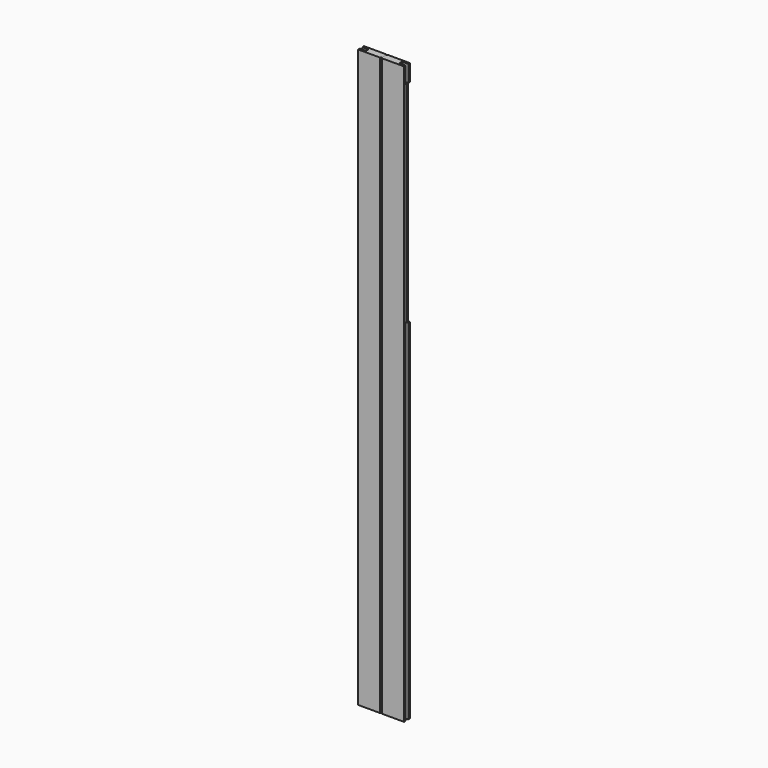
from build123d import *

# Parameters (mm, degrees)
F0_W      = 69.85
F0_H      = 1778
F1_DEPTH  = 22.225
F2_W      = 9.525
F2_H      = 47.625
F2_H_2    = 38.1
F2_H_3    = 60.325
F3_DEPTH  = 69.85
F2_H_4    = 31.75
F2_H_5    = 25.4
F4_DEPTH  = 19.05
F5_W      = 69.85
F5_H      = 12.7
F6_DEPTH  = 22.226
F7_W      = 9.525
F7_H      = 939.8
F8_DEPTH  = 9.525
F10_SIZE  = 3.175
F11_DEPTH = 1.984375
F12_DEPTH = 6.35


with BuildPart() as f1:
    # F0 (on Front) → F1 (new body)
    with BuildSketch(Plane.XZ):
        with Locations((34.925, 889)):
            Rectangle(F0_W, F0_H)
    extrude(amount=F1_DEPTH)

    # F2 (on face) → F3 (cut, through all)
    with BuildSketch(Plane.YZ.offset(69.85)):
        with Locations((-11.1125, 55.5625)):
            Rectangle(F2_W, F2_H)
        with Locations((-11.1125, 1733.55)):
            Rectangle(F2_W, F2_H_2)
        with Locations((-11.1125, 1049.3375)):
            Rectangle(F2_W, F2_H_3)
    extrude(amount=-F3_DEPTH, mode=Mode.SUBTRACT)

    # F2 (on face) → F4 (cut)
    with BuildSketch(Plane.YZ.offset(69.85)):
        with Locations((-11.1125, 15.875)):
            Rectangle(F2_W, F2_H_4)
        with Locations((-11.1125, 1765.3)):
            Rectangle(F2_W, F2_H_5)
    extrude(amount=-F4_DEPTH, mode=Mode.SUBTRACT)

    # F5 (on face) → F6 (cut, through all)
    with BuildSketch(Plane.XZ.offset(22.225)):
        with Locations((34.925, 6.35)):
            Rectangle(F5_W, F5_H)
        with Locations((34.925, 1771.65)):
            Rectangle(F5_W, F5_H)
    extrude(amount=-F6_DEPTH, mode=Mode.SUBTRACT)

    # F7 (on face) → F8 (cut)
    with BuildSketch(Plane.YZ.offset(69.85)):
        with Locations((-11.1125, 549.275)):
            Rectangle(F7_W, F7_H)
        with Locations((-11.1125, 549.275)):
            Rectangle(F7_W, F7_H)
    extrude(amount=-F8_DEPTH, mode=Mode.SUBTRACT)

    # F10
    f10_edges = [f1.edges().sort_by_distance(p)[0] for p in [
        (0, -22.225, 889),
        (0, 0, 889),
    ]]
    chamfer(f10_edges, length=F10_SIZE)

    # F9 (on face) → F11 (cut)
    with BuildSketch(Plane(origin=(0, 0, 12.7), x_dir=(1, 0, 0), z_dir=(0, 0, -1))):
        with BuildLine():
            Line((61.9125, 16.66875), (20.6375, 16.66875))
            ThreePointArc((20.6375, 16.66875), (15.875, 11.90625), (20.6375, 7.14375))
            Line((20.6375, 7.14375), (50.8, 7.14375))
            Line((50.8, 7.14375), (50.8, 15.875))
            Line((50.8, 15.875), (64.545071, 15.875))
            ThreePointArc((64.545071, 15.875), (63.287315, 16.465997), (61.9125, 16.66875))
        make_face()
    extrude(amount=-F11_DEPTH, mode=Mode.SUBTRACT)

    # F7 (on face) → F12 (cut)
    with BuildSketch(Plane.YZ.offset(69.85)):
        Polygon((-6.35, 1079.5), (-6.35, 1073.15), (0, 1073.15), (0, 1714.5), (-6.35, 1714.5), (-12.7, 1714.5), (-12.7, 1079.5), align=None)
    extrude(amount=-F12_DEPTH, mode=Mode.SUBTRACT)


with BuildPart() as f13_1:
    # F13: instance of F1
    add(f1.part.mirror(Plane(origin=(0, -11.1125, 888.222597), x_dir=(0, -1, 0), z_dir=(-1, 0, 0))))


solid = Compound([f1.part, f13_1.part])
